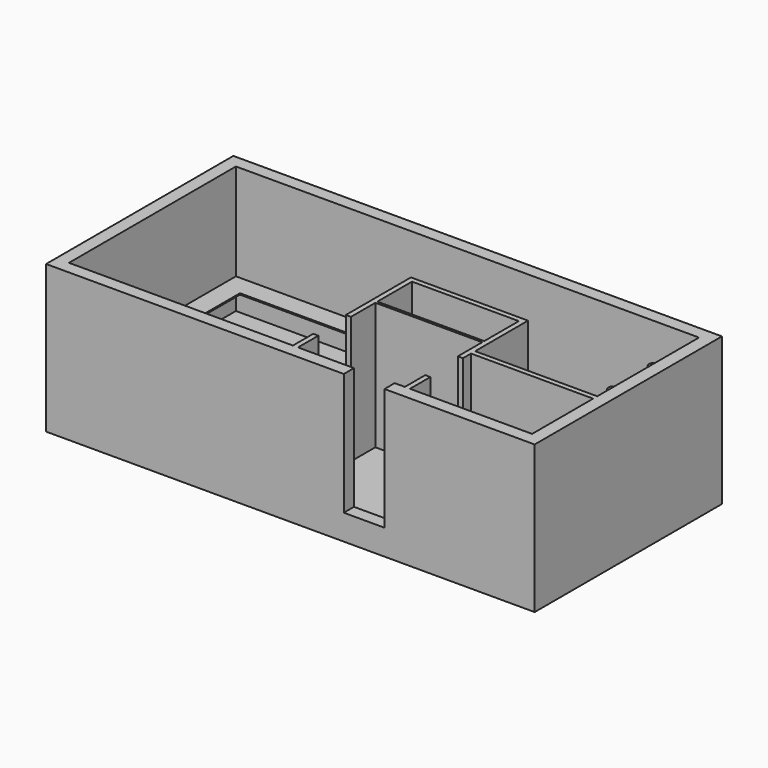
from build123d import *

# Parameters (mm, degrees)
F0_W      = 9600
F0_H      = 4600
F0_R      = 60
F0_W_2    = 2100
F0_H_2    = 2800
F0_W_3    = 2400
F0_H_3    = 1500
F1_DEPTH  = 400
F2_DEPTH  = 2500
F3_W      = 800
F3_H      = 2500
F4_DEPTH  = 400
F5_W      = 800
F5_H      = 2500
F6_DEPTH  = 4000
F10_W     = 400
F10_H     = 25
F13_R     = 100
F14_DEPTH = 25
F15_W     = 2100
F15_H     = 50
F16_DEPTH = 2500


with BuildPart() as f1:
    # F0 (on Top) → F1 (new body)
    with BuildSketch(Plane.XY):
        Rectangle(F0_W, F0_H)
        Polygon((4550, -550), (4550, -2050), (2150, -2050), (2050, -2050), (-50, -2050), (-150, -2050), (-4550, -2050), (-4550, 2050), (4550, 2050), (4550, -450), align=None, mode=Mode.SUBTRACT)
        Polygon((2150, -450), (4550, -450), (4550, 2050), (-4550, 2050), (-4550, -2050), (-150, -2050), (-150, 850), (2050, 850), (2150, 850), align=None)
        with Locations((3250, -50)):
            Circle(F0_R, mode=Mode.SUBTRACT)
        with Locations((4150, 950)):
            Circle(F0_R, mode=Mode.SUBTRACT)
        Polygon((2150, -450), (4550, -450), (4550, 2050), (-4550, 2050), (-4550, -2050), (-150, -2050), (-150, 850), (2050, 850), (2150, 850), align=None)
        with Locations((3250, -50)):
            Circle(F0_R, mode=Mode.SUBTRACT)
        with Locations((4150, 950)):
            Circle(F0_R, mode=Mode.SUBTRACT)
        Polygon((2150, -450), (4550, -450), (4550, 2050), (-4550, 2050), (-4550, -2050), (-150, -2050), (-150, 850), (2050, 850), (2150, 850), align=None)
        with Locations((3250, -50)):
            Circle(F0_R, mode=Mode.SUBTRACT)
        with Locations((4150, 950)):
            Circle(F0_R, mode=Mode.SUBTRACT)
        Polygon((2150, -450), (4550, -450), (4550, 2050), (-4550, 2050), (-4550, -2050), (-150, -2050), (-150, 850), (2050, 850), (2150, 850), align=None)
        with Locations((3250, -50)):
            Circle(F0_R, mode=Mode.SUBTRACT)
        with Locations((4150, 950)):
            Circle(F0_R, mode=Mode.SUBTRACT)
        Polygon((2150, -450), (4550, -450), (4550, 2050), (-4550, 2050), (-4550, -2050), (-150, -2050), (-150, 850), (2050, 850), (2150, 850), align=None)
        with Locations((3250, -50)):
            Circle(F0_R, mode=Mode.SUBTRACT)
        with Locations((4150, 950)):
            Circle(F0_R, mode=Mode.SUBTRACT)
        Polygon((2150, -450), (4550, -450), (4550, 2050), (-4550, 2050), (-4550, -2050), (-150, -2050), (-150, 850), (2050, 850), (2150, 850), align=None)
        with Locations((3250, -50)):
            Circle(F0_R, mode=Mode.SUBTRACT)
        with Locations((4150, 950)):
            Circle(F0_R, mode=Mode.SUBTRACT)
        Polygon((2150, -450), (4550, -450), (4550, 2050), (-4550, 2050), (-4550, -2050), (-150, -2050), (-150, 850), (2050, 850), (2150, 850), align=None)
        with Locations((3250, -50)):
            Circle(F0_R, mode=Mode.SUBTRACT)
        with Locations((4150, 950)):
            Circle(F0_R, mode=Mode.SUBTRACT)
        Polygon((2150, -450), (4550, -450), (4550, 2050), (-4550, 2050), (-4550, -2050), (-150, -2050), (-150, 850), (2050, 850), (2150, 850), align=None)
        with Locations((3250, -50)):
            Circle(F0_R, mode=Mode.SUBTRACT)
        with Locations((4150, 950)):
            Circle(F0_R, mode=Mode.SUBTRACT)
        Polygon((2150, -450), (4550, -450), (4550, 2050), (-4550, 2050), (-4550, -2050), (-150, -2050), (-150, 850), (2050, 850), (2150, 850), align=None)
        with Locations((3250, -50)):
            Circle(F0_R, mode=Mode.SUBTRACT)
        with Locations((4150, 950)):
            Circle(F0_R, mode=Mode.SUBTRACT)
        Polygon((2150, -450), (4550, -450), (4550, 2050), (-4550, 2050), (-4550, -2050), (-150, -2050), (-150, 850), (2050, 850), (2150, 850), align=None)
        with Locations((3250, -50)):
            Circle(F0_R, mode=Mode.SUBTRACT)
        with Locations((4150, 950)):
            Circle(F0_R, mode=Mode.SUBTRACT)
        Polygon((2150, -450), (4550, -450), (4550, 2050), (-4550, 2050), (-4550, -2050), (-150, -2050), (-150, 850), (2050, 850), (2150, 850), align=None)
        with Locations((3250, -50)):
            Circle(F0_R, mode=Mode.SUBTRACT)
        with Locations((4150, 950)):
            Circle(F0_R, mode=Mode.SUBTRACT)
        Polygon((2150, -450), (4550, -450), (4550, 2050), (-4550, 2050), (-4550, -2050), (-150, -2050), (-150, 850), (2050, 850), (2150, 850), align=None)
        with Locations((3250, -50)):
            Circle(F0_R, mode=Mode.SUBTRACT)
        with Locations((4150, 950)):
            Circle(F0_R, mode=Mode.SUBTRACT)
        Polygon((2150, -450), (4550, -450), (4550, 2050), (-4550, 2050), (-4550, -2050), (-150, -2050), (-150, 850), (2050, 850), (2150, 850), align=None)
        with Locations((3250, -50)):
            Circle(F0_R, mode=Mode.SUBTRACT)
        with Locations((4150, 950)):
            Circle(F0_R, mode=Mode.SUBTRACT)
        Polygon((2150, -450), (4550, -450), (4550, 2050), (-4550, 2050), (-4550, -2050), (-150, -2050), (-150, 850), (2050, 850), (2150, 850), align=None)
        with Locations((3250, -50)):
            Circle(F0_R, mode=Mode.SUBTRACT)
        with Locations((4150, 950)):
            Circle(F0_R, mode=Mode.SUBTRACT)
        Polygon((2150, -450), (4550, -450), (4550, 2050), (-4550, 2050), (-4550, -2050), (-150, -2050), (-150, 850), (2050, 850), (2150, 850), align=None)
        with Locations((3250, -50)):
            Circle(F0_R, mode=Mode.SUBTRACT)
        with Locations((4150, 950)):
            Circle(F0_R, mode=Mode.SUBTRACT)
        Polygon((2150, -450), (4550, -450), (4550, 2050), (-4550, 2050), (-4550, -2050), (-150, -2050), (-150, 850), (2050, 850), (2150, 850), align=None)
        with Locations((3250, -50)):
            Circle(F0_R, mode=Mode.SUBTRACT)
        with Locations((4150, 950)):
            Circle(F0_R, mode=Mode.SUBTRACT)
        with Locations((1000, -650)):
            Rectangle(F0_W_2, F0_H_2)
        with Locations((3350, -1300)):
            Rectangle(F0_W_3, F0_H_3)
        Polygon((2050, -2050), (2150, -2050), (2150, -550), (4550, -550), (4550, -450), (2150, -450), (2150, 850), (2050, 850), (2050, 750), align=None)
        Polygon((-150, -2050), (-50, -2050), (-50, 750), (2050, 750), (2050, 850), (-150, 850), align=None)
    extrude(amount=-F1_DEPTH)

    # F0 (on Top) → F2 (join)
    with BuildSketch(Plane.XY):
        Rectangle(F0_W, F0_H)
        Polygon((4550, -550), (4550, -2050), (2150, -2050), (2050, -2050), (-50, -2050), (-150, -2050), (-4550, -2050), (-4550, 2050), (4550, 2050), (4550, -450), align=None, mode=Mode.SUBTRACT)
        Polygon((2050, -2050), (2150, -2050), (2150, -550), (4550, -550), (4550, -450), (2150, -450), (2150, 850), (2050, 850), (2050, 750), align=None)
        Polygon((-150, -2050), (-50, -2050), (-50, 750), (2050, 750), (2050, 850), (-150, 850), align=None)
    extrude(amount=F2_DEPTH)

    # F3 (on face) → F4 (cut)
    with BuildSketch(Plane.XZ.offset(2300)):
        with Locations((1450, 1350)):
            Rectangle(F3_W, F3_H)
    extrude(amount=-F4_DEPTH, mode=Mode.SUBTRACT)

    # F5 (on face) → F6 (cut)
    with BuildSketch(Plane.YZ.offset(2150)):
        with Locations((-1150, 1350)):
            Rectangle(F5_W, F5_H)
    extrude(amount=-F6_DEPTH, mode=Mode.SUBTRACT)

    # F15 (on face) → F16 (join)
    with BuildSketch(Plane.XY):
        with Locations((1000, -125)):
            Rectangle(F15_W, F15_H)
    extrude(amount=F16_DEPTH)


with BuildPart() as f11:
    # F11: sweep along a path in F9
    with BuildLine(Plane.XY.offset(600)) as f11_path:
        Line((-150, -2050), (-4550, -2050))
        Line((-4550, -2050), (-4550, 2050))
        Line((-4550, 2050), (-150, 2050))
    # F10 (on face) → F11 (sweep)
    with BuildSketch(Plane(origin=(-150, 0, 0), x_dir=(0, -1, 0), z_dir=(-1, 0, 0))):
        with Locations((1850, 587.5)):
            Rectangle(F10_W, F10_H)
    sweep(path=f11_path.line, transition=Transition.RIGHT)


with BuildPart() as f14:
    # F13 (on offset) → F14 (new body)
    with BuildSketch(Plane.XY.offset(2100)):
        with Locations((2750, -50)):
            Circle(F13_R)
    extrude(amount=F14_DEPTH)


with BuildPart() as f14b:
    # F13 (on offset) → F14, piece 2 (new body)
    with BuildSketch(Plane.XY.offset(2100)):
        with Locations((4150, 1450)):
            Circle(F13_R)
    extrude(amount=F14_DEPTH)


with BuildPart() as f14c:
    # F13 (on offset) → F14, piece 3 (new body)
    with BuildSketch(Plane.XY.offset(2100)):
        with Locations((4150, 450)):
            Circle(F13_R)
    extrude(amount=F14_DEPTH)


with BuildPart() as f14d:
    # F13 (on offset) → F14, piece 4 (new body)
    with BuildSketch(Plane.XY.offset(2100)):
        with Locations((3750, -50)):
            Circle(F13_R)
    extrude(amount=F14_DEPTH)


solid = Compound([f1.part, f11.part, f14.part, f14b.part, f14c.part, f14d.part])
